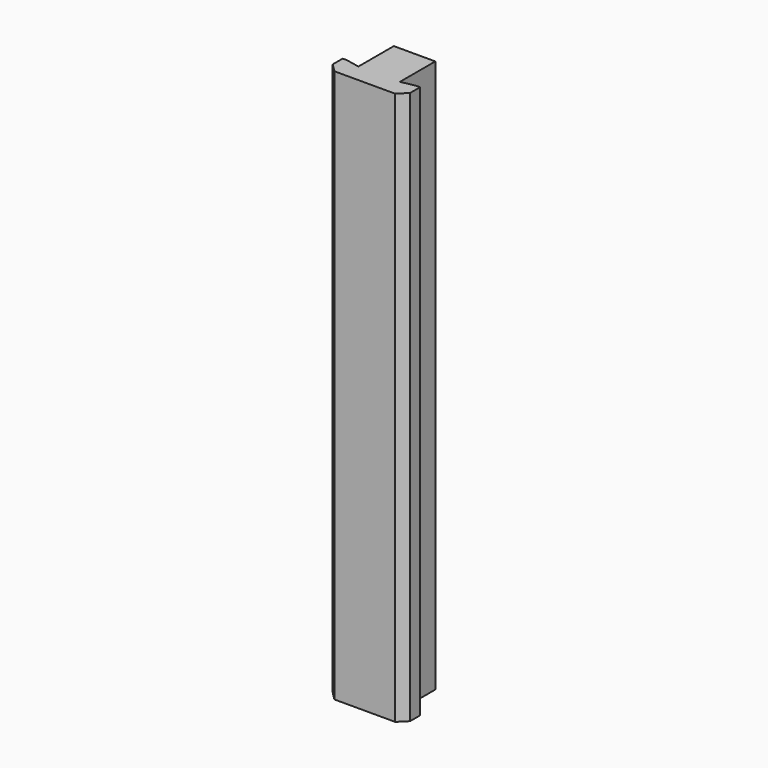
from build123d import *

# Parameters (mm, degrees)
PAD_DEPTH = 80


with BuildPart() as part:
    # Sketch → Pad (new body)
    with BuildSketch(Plane.XY):
        Polygon((0, 3), (0, 1.2), (1.2, 0), (10, 0), (11.2, 1.2), (11.2, 3), (10.6, 3), (8.6, 2.6), (8.6, 9), (2.6, 9), (2.6, 2.6), (0.6, 3), align=None)
    extrude(amount=PAD_DEPTH)


solid = part.part
